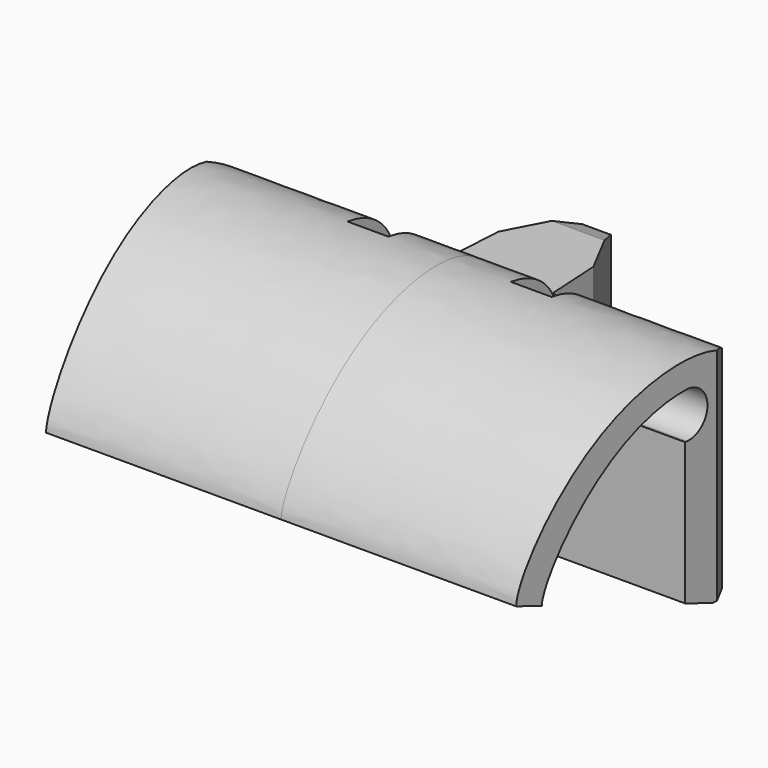
from build123d import *

# Parameters (mm, degrees)
PAD_DEPTH            = 25
PAD001_DEPTH         = 18
SKETCH009_R          = 1.5
POCKET_DEPTH         = 22.037219
SKETCH010_W          = 4
SKETCH010_H          = 4
SKETCH010_W_2        = 10
POCKET001_DEPTH      = 6
POCKET002_DEPTH      = 0.001
POCKET002_DEPTH_BACK = -57.785827


with BuildPart() as part:
    # Sketch006 → Pad (new body, symmetric)
    with BuildSketch(Plane(origin=(32.784826, 3e-06, 0), x_dir=(0, 1, 0), z_dir=(1, 0, 0))):
        with BuildLine():
            Line((4, 0), (4, 15))
            add(Edge.make_bspline(
                [(4, 15), (4, 23.212807), (-14, 23.393326), (-22.61293, 10), (-22.61293, 7.866463)],
                knots=[0, 0, 0, 0, 0.5, 1, 1, 1, 1], degree=3))
            Line((-22.61293, 7.866463), (-19.793852, 6.840403))
            add(Edge.make_bspline(
                [(-3.8, 19.5), (-13.258017, 19), (-19.793852, 8.97394), (-19.793852, 6.840403)],
                knots=[0, 0, 0, 0, 1, 1, 1, 1], degree=3))
            ThreePointArc((-3.8, 19.5), (-1.55, 17.25), (-3.8, 15))
            Line((-3.8, 15), (-4, 15))
            Line((-4, 15), (-4, 1.091911))
            Line((-4, 1.091911), (-1, 0))
            Line((-1, 0), (4, 0))
        make_face()
    extrude(amount=PAD_DEPTH, both=True)

    # Sketch008 (on Face9 of Pad) → Pad001 (join)
    with BuildSketch(Plane(origin=(32.784826, 3e-06, 0), x_dir=(0, 1, 0), z_dir=(0, 0, -1))):
        Polygon((3.05, 6.5), (3.05, -6.5), (4.6, -4.95), (9.8, -4.65), (16, -1.4), (16, 1.4), (9.8, 4.65), (4.6, 4.95), align=None)
    extrude(amount=-PAD001_DEPTH)

    # Sketch009 (on Face5 of Pad001) → Pocket (cut, through all)
    with BuildSketch(Plane(origin=(32.784826, 3e-06, 0), x_dir=(0, 1, 0), z_dir=(0, 0, -1))):
        with Locations((0, -8)):
            Circle(SKETCH009_R)
        with Locations((0, 8)):
            Circle(SKETCH009_R)
        Polygon((-34, -26), (4, -26), (4, -12), (1.35, -24), (-0.5, -25), (-34, -22), align=None)
        Polygon((-34, 26), (4, 26), (4, 12), (1.35, 24), (-0.5, 25), (-34, 22), align=None)
    extrude(amount=-POCKET_DEPTH, mode=Mode.SUBTRACT)

    # Sketch010 (on Face12 of Pocket) → Pocket001 (cut)
    with BuildSketch(Plane(origin=(32.784826, 4.000003, 0), x_dir=(0, 0, 1), z_dir=(0, 1, 0))):
        with Locations((7.5, 8)):
            Rectangle(SKETCH010_W, SKETCH010_H)
        with Locations((7.5, -8)):
            Rectangle(SKETCH010_W, SKETCH010_H)
        with Locations((20, 8)):
            Rectangle(SKETCH010_W_2, SKETCH010_H)
        with Locations((20, -8)):
            Rectangle(SKETCH010_W_2, SKETCH010_H)
    extrude(amount=-POCKET001_DEPTH, mode=Mode.SUBTRACT)

    # Sketch → Pocket002 (cut, two sides)
    with BuildSketch(Plane.YZ) as pocket002_sk:
        Polygon((11, 19), (16.940921, 19), (16.940921, 16.837682), align=None)
        Polygon((12.734107, -0.552658), (17, -0.552658), (17, 1), align=None)
    extrude(amount=-POCKET002_DEPTH, mode=Mode.SUBTRACT)
    extrude(pocket002_sk.sketch, amount=-POCKET002_DEPTH_BACK, mode=Mode.SUBTRACT)


solid = part.part
